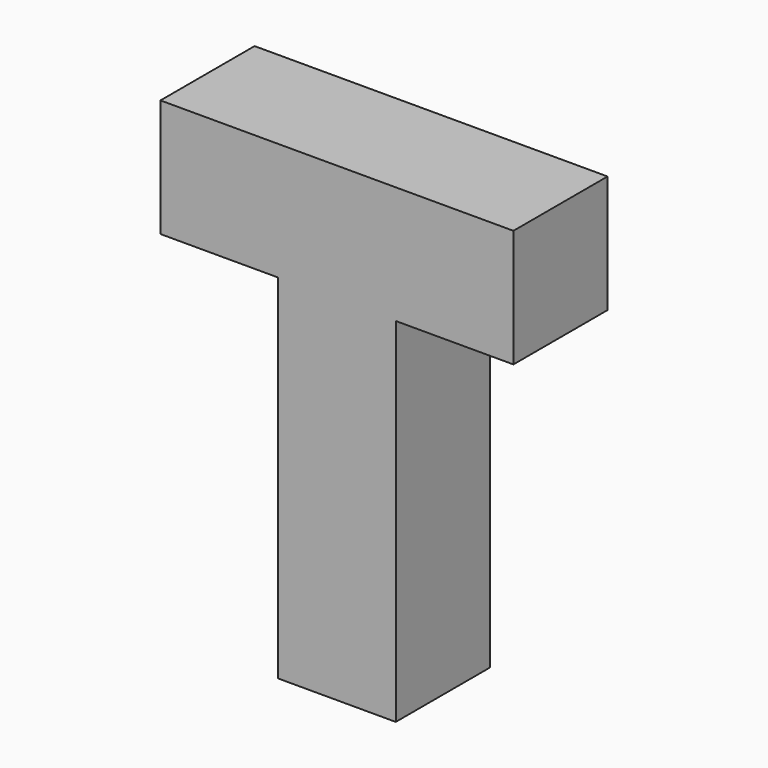
from build123d import *

# Parameters (mm, degrees)
BOX074_W     = 1
BOX074_H     = 1
BOX074_DEPTH = 3
BOX069_W     = 3
BOX069_H     = 1
BOX069_DEPTH = 1


with BuildPart() as box074:
    # Box074 → Box074 (new body)
    with BuildSketch(Plane(origin=(39, 0, 3), x_dir=(1, 0, 0), z_dir=(0, 0, 1))):
        with Locations((0.5, 0.5)):
            Rectangle(BOX074_W, BOX074_H)
    extrude(amount=BOX074_DEPTH)


with BuildPart() as fusion033:
    # Box069 → Box069 (new body)
    with BuildSketch(Plane(origin=(38, 0, 6), x_dir=(1, 0, 0), z_dir=(0, 0, 1))):
        with Locations((1.5, 0.5)):
            Rectangle(BOX069_W, BOX069_H)
    extrude(amount=BOX069_DEPTH)

    # Fusion033: union Box074
    add(box074.part)


solid = fusion033.part
